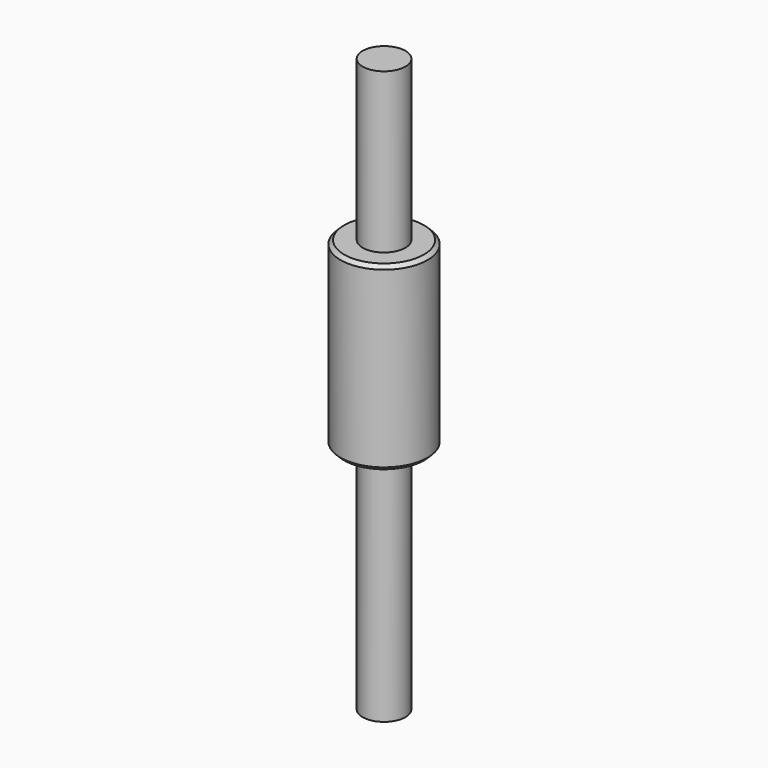
from build123d import *

# Parameters (mm, degrees)
F0_R     = 2.95
F3_DEPTH = 32
F0_R_2   = 6
F4_DEPTH = 25
F2_R     = 2.95
F5_DEPTH = 22
F6_SIZE  = 0.5


with BuildPart() as f3:
    # F0 (on Top) → F3 (new body)
    with BuildSketch(Plane.XY):
        Circle(F0_R)
    extrude(amount=-F3_DEPTH)

    # F0 (on Top) → F4 (join)
    with BuildSketch(Plane.XY):
        Circle(F0_R_2)
        Circle(F0_R, mode=Mode.SUBTRACT)
        Circle(F0_R)
    extrude(amount=F4_DEPTH)

    # F2 (on offset) → F5 (join)
    with BuildSketch(Plane.XY.offset(25)):
        Circle(F2_R)
    extrude(amount=F5_DEPTH)

    # F6
    f6_edges = [f3.edges().sort_by_distance(p)[0] for p in [
        (-6, 0, 25),
        (-6, 0, 0),
    ]]
    chamfer(f6_edges, length=F6_SIZE)


solid = f3.part
